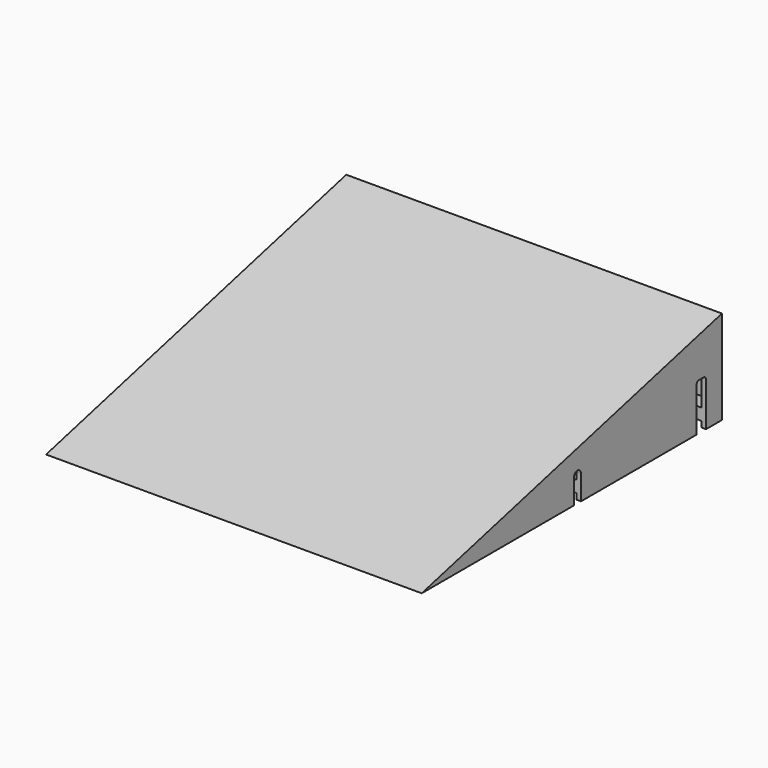
from build123d import *

# Parameters (mm, degrees)
F1_DEPTH  = 203.454
F2_T      = -2.54
F3_W      = 139.7
F3_H      = 6.35
F4_DEPTH  = 6.35
F5_W      = 139.7
F5_H      = 6.35
F6_DEPTH  = 6.35
F7_W      = 185.674
F7_H      = 6.35
F8_DEPTH  = 6.35
F10_DEPTH = 203.455
F12_DEPTH = 203.455


with BuildPart() as f1:
    # F0 (on Right) → F1 (new body)
    with BuildSketch(Plane.YZ):
        Polygon((-107.919275, 0), (95.280725, 0), (95.280725, 50.8), align=None)
    extrude(amount=F1_DEPTH)

    # F2
    f2_openings = [f1.faces().sort_by_distance(p)[0] for p in [
        (101.727, -6.319275, 0),
    ]]
    offset(amount=F2_T, openings=f2_openings)

    # F3 (on face) → F4 (join)
    with BuildSketch(Plane.YZ.offset(2.54)):
        with Locations((22.890725, 6.35)):
            Rectangle(F3_W, F3_H)
    extrude(amount=F4_DEPTH)

    # F5 (on face) → F6 (join)
    with BuildSketch(Plane(origin=(200.914, 0, 0), x_dir=(0, -1, 0), z_dir=(-1, 0, 0))):
        with Locations((-22.890725, 6.35)):
            Rectangle(F5_W, F5_H)
    extrude(amount=F6_DEPTH)

    # F7 (on face) → F8 (join)
    with BuildSketch(Plane.XZ.offset(-92.740725)):
        with Locations((101.727, 6.35)):
            Rectangle(F7_W, F7_H)
    extrude(amount=F8_DEPTH)

    # F9 (on face) → F10 (cut, through all)
    with BuildSketch(Plane.YZ.offset(203.454)):
        with BuildLine():
            Line((78.135725, 0), (84.485725, 0))
            Line((84.485725, 0), (84.485725, 23.8125))
            ThreePointArc((84.485725, 23.8125), (84.020757, 24.935032), (82.898225, 25.4))
            Line((82.898225, 25.4), (79.723225, 25.4))
            ThreePointArc((79.723225, 25.4), (78.600693, 24.935032), (78.135725, 23.8125))
            Line((78.135725, 23.8125), (78.135725, 0))
        make_face()
    extrude(amount=-F10_DEPTH, mode=Mode.SUBTRACT)

    # F11 (on face) → F12 (cut, through all)
    with BuildSketch(Plane(origin=(0, 0, 0), x_dir=(0, -1, 0), z_dir=(-1, 0, 0))):
        with BuildLine():
            ThreePointArc((0.128145, 13.311182), (2.521184, 10.95378), (4.890525, 13.335))
            ThreePointArc((4.890525, 13.335), (2.497366, 15.71622), (0.128145, 13.311182))
        make_face()
        with BuildLine():
            Line((4.890525, 0), (4.890525, 13.335))
            ThreePointArc((4.890525, 13.335), (2.521184, 10.95378), (0.128145, 13.311182))
            Line((0.128145, 13.311182), (0.128145, 0))
            Line((0.128145, 0), (4.890525, 0))
        make_face()
    extrude(amount=-F12_DEPTH, mode=Mode.SUBTRACT)


solid = f1.part
